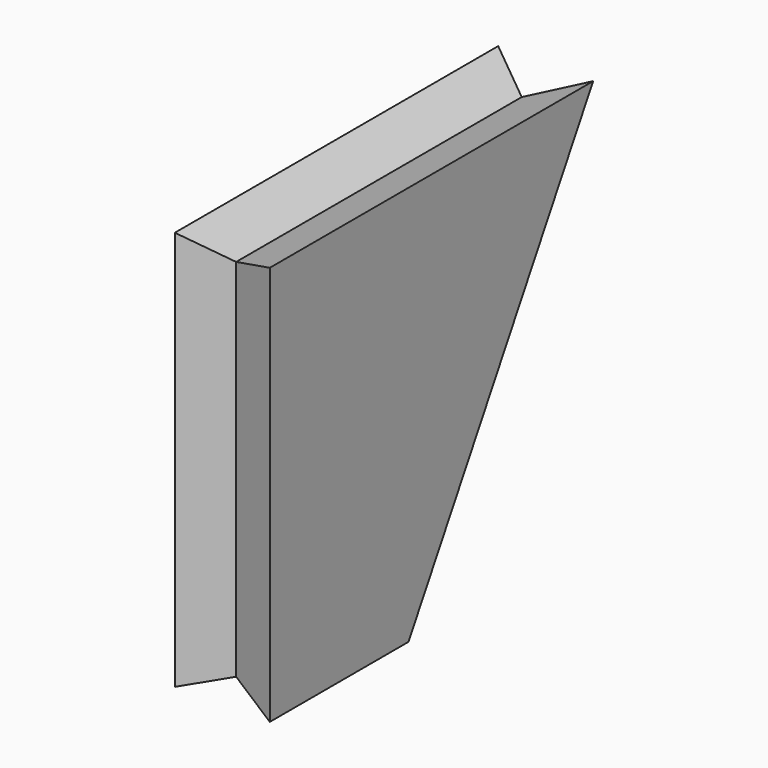
from build123d import *

# Parameters (mm, degrees)
F1_DEPTH = 6.5
F1_TAPER = -20


with BuildPart() as f1:
    # F0 (on Right) → F1 (new body, symmetric)
    with BuildSketch(Plane.YZ):
        Polygon((0, -50), (20, -50), (48.8675134595, 0), (0, 0), align=None)
    extrude(amount=F1_DEPTH, both=True, taper=F1_TAPER)


solid = f1.part
